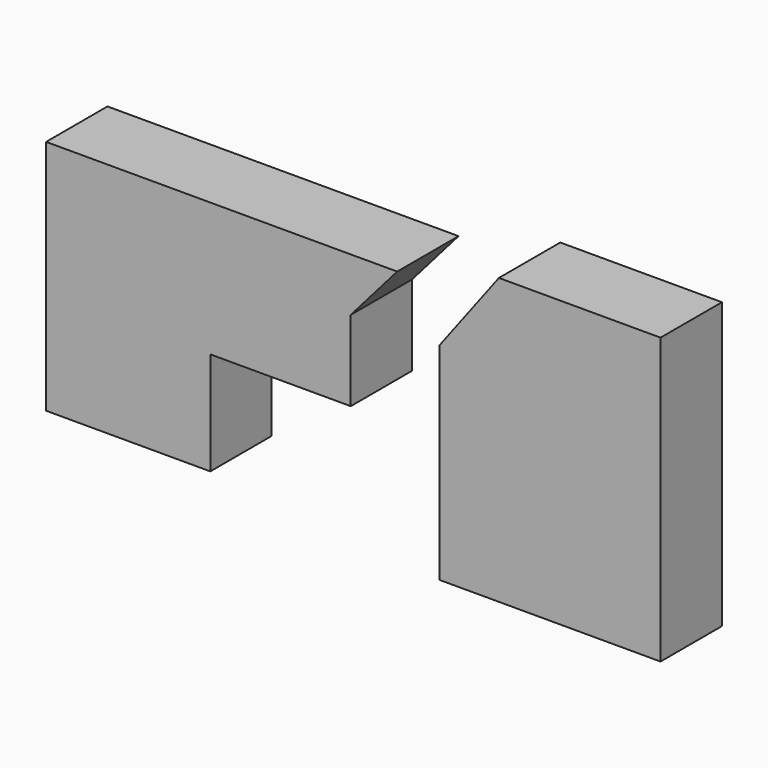
from build123d import *

# Parameters (mm, degrees)
F1_DEPTH = 25


with BuildPart() as f1:
    # F0 (on Front) → F1 (new body)
    with BuildSketch(Plane.XZ):
        Polygon((-13.831179, 36.370296), (-122.313194, 36.370296), (-128.216967, 36.370296), (-128.216967, -40.747866), (-74.713945, -40.747866), (-74.713945, -7.170101), (-28.959626, -7.170101), (-28.959626, 19.027935), align=None)
        Polygon((71.970657, 45.317533), (19.303895, 45.317533), (0, 19.765908), (0, -4.956183), (0, -35.582054), (0, -47.589928), (71.970657, -47.589928), align=None)
    extrude(amount=F1_DEPTH)


solid = f1.part
